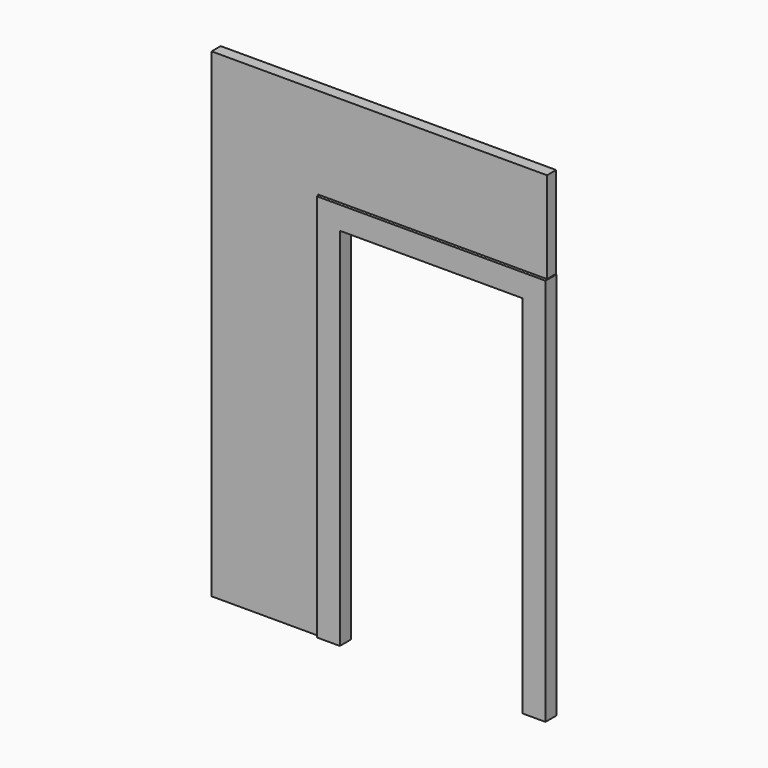
from build123d import *

# Parameters (mm, degrees)
F1_DEPTH = 76.2
F2_W     = 592.77684
F2_H     = 2159
F3_DEPTH = 63.5


with BuildPart() as f1:
    # F0 (on Front) → F1 (new body)
    with BuildSketch(Plane.XZ):
        Polygon((635, 1079.5), (-635, 1079.5), (-635, -1079.5), (-508, -1079.5), (-508, 952.5), (508, 952.5), (508, -1079.5), (635, -1079.5), align=None)
    extrude(amount=F1_DEPTH)


with BuildPart() as f3:
    # F2 (on Front) → F3 (new body)
    with BuildSketch(Plane.XZ):
        Polygon((-638.381676, 1082.102463), (633.454582, 1082.102463), (633.454582, 1590.102463), (-1231.158516, 1590.102463), (-1231.158516, 1082.102463), align=None)
        with Locations((-934.770096, 2.602463)):
            Rectangle(F2_W, F2_H)
    extrude(amount=F3_DEPTH)


solid = Compound([f1.part, f3.part])
